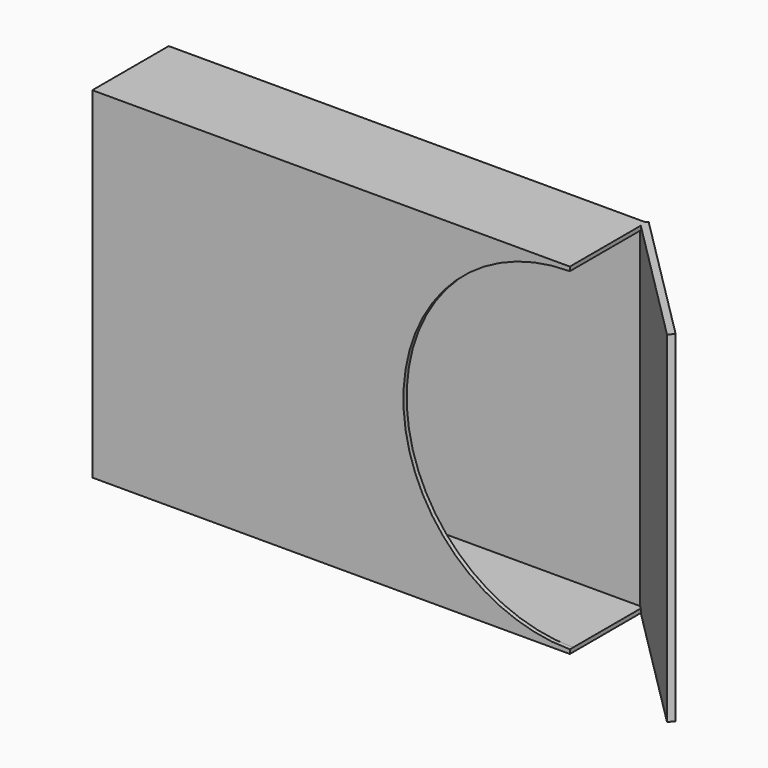
from build123d import *

# Parameters (mm, degrees)
BOX002_W               = 140
BOX002_H               = 5
BOX002_DEPTH           = 250
BOX002_PLACEMENT_ANGLE = -45
CYLINDER_R             = 122
CYLINDER_DEPTH         = 20
CYLINDER_ROLL_ANGLE    = 90
BOX001_W               = 350
BOX001_H               = 64
BOX001_DEPTH           = 244
BOX_W                  = 350
BOX_H                  = 70
BOX_DEPTH              = 250


with BuildPart() as cube002:
    # Box002 → Box002 (new body)
    with BuildSketch(Plane.XY):
        with Locations((70, 2.5)):
            Rectangle(BOX002_W, BOX002_H)
    extrude(amount=BOX002_DEPTH)


with BuildPart() as cube002_1:
    # Box002 placement: moved
    add(cube002.part.moved(Location((172, 33, -125))).rotate(Axis((172, 33, -125), (0, 0, 1)), BOX002_PLACEMENT_ANGLE))


with BuildPart() as cylinder:
    # Cylinder → Cylinder (new body)
    with BuildSketch(Plane.XY):
        Circle(CYLINDER_R)
    extrude(amount=CYLINDER_DEPTH)


with BuildPart() as cylinder_1:
    # Cylinder roll: moved
    add(cylinder.part.rotate(Axis((0, 0, 0), (1, 0, 0)), CYLINDER_ROLL_ANGLE))


with BuildPart() as cylinder_2:
    # Cylinder placement: moved
    add(cylinder_1.part.moved(Location((175, -20, 0))))


with BuildPart() as cube001:
    # Box001 → Box001 (new body)
    with BuildSketch(Plane(origin=(-172, -32, -122), x_dir=(1, 0, 0), z_dir=(0, 0, 1))):
        with Locations((175, 32)):
            Rectangle(BOX001_W, BOX001_H)
    extrude(amount=BOX001_DEPTH)


with BuildPart() as fusion:
    # Box → Box (new body)
    with BuildSketch(Plane(origin=(-175, -35, -125), x_dir=(1, 0, 0), z_dir=(0, 0, 1))):
        with Locations((175, 35)):
            Rectangle(BOX_W, BOX_H)
    extrude(amount=BOX_DEPTH)

    # Cut: cut Cube001
    add(cube001.part, mode=Mode.SUBTRACT)

    # Cut001: cut Cylinder
    add(cylinder_2.part, mode=Mode.SUBTRACT)

    # Fusion: union Cube002
    add(cube002_1.part)


solid = fusion.part
